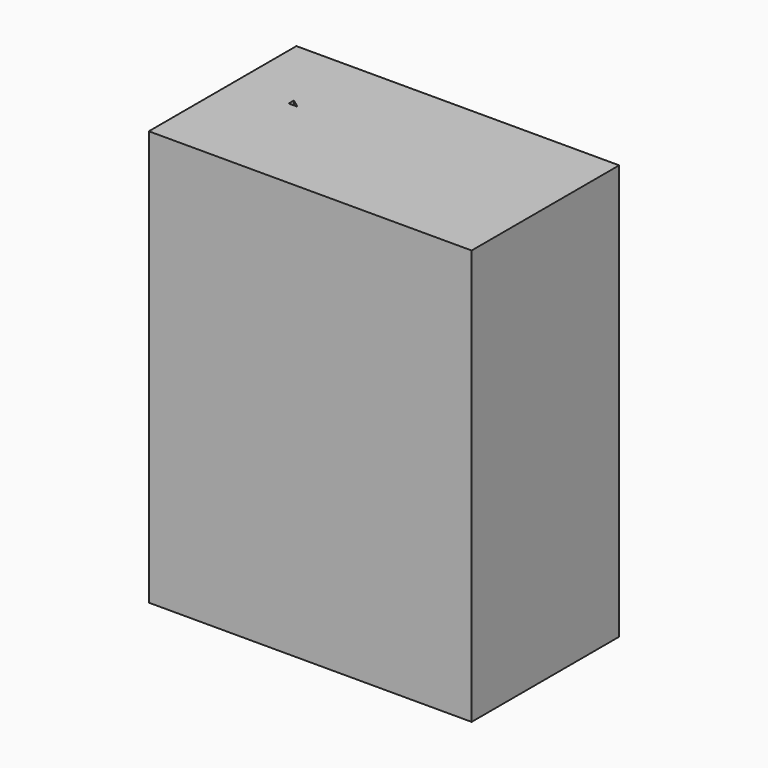
from build123d import *

# Parameters (mm, degrees)
F0_W     = 35
F0_H     = 20
F1_DEPTH = 45


with BuildPart() as f1:
    # F0 (on Top) → F1 (new body)
    with BuildSketch(Plane.XY):
        Rectangle(F0_W, F0_H)
        Polygon((-11.43638, 1.369983), (-11.43638, 2.084757), (-10.483347, 1.369983), align=None, mode=Mode.SUBTRACT)
    extrude(amount=F1_DEPTH)


solid = f1.part
